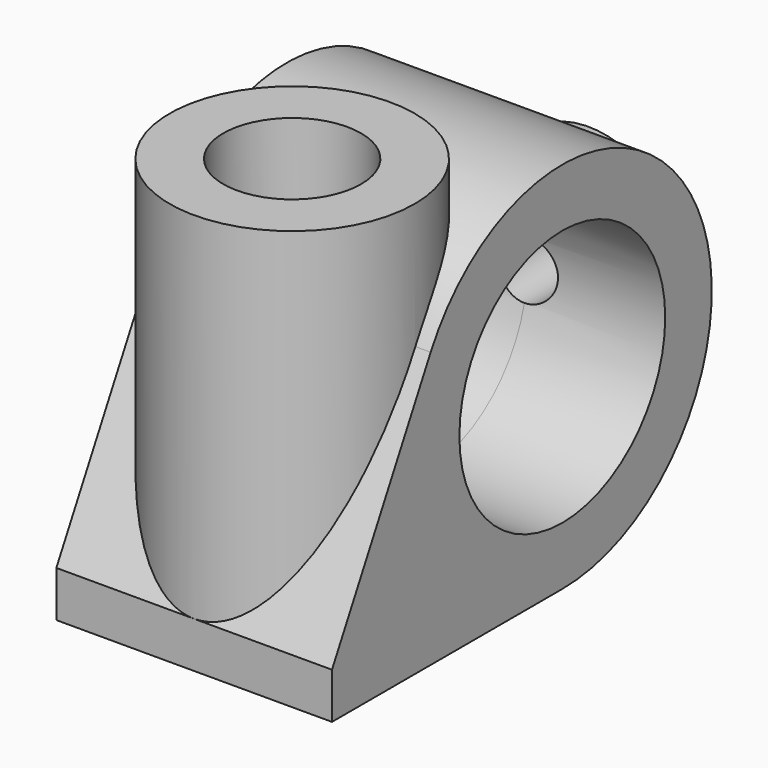
from build123d import *

# Parameters (mm, degrees)
F1_DEPTH       = 45
F2_R           = 40
F3_DEPTH       = 70
F3_DEPTH_BACK  = 61
F4_R           = 30
F5_DEPTH       = 67
F6_R           = 22.5
F9_DEPTH       = 131.0010001
F7_R           = 42
F10_DEPTH      = 45
F10_DEPTH_BACK = 45
F8_R           = 10
F11_DEPTH      = 67.0010001


with BuildPart() as f1:
    # F0 (on Right) → F1 (new body, symmetric)
    with BuildSketch(Plane.YZ):
        with BuildLine():
            Line((-53.7237960867, 28.8921050468), (-94, -46))
            Line((-94, -46), (-94, -61))
            Line((-94, -61), (0, -61))
            ThreePointArc((0, -61), (52.3613330992, 31.2936222907), (-53.7237960867, 28.8921050468))
        make_face()
    extrude(amount=F1_DEPTH, both=True)

    # F2 (on Top) → F3 (join, two sides)
    with BuildSketch(Plane.XY) as f3_sk:
        with Locations((0, -54)):
            Circle(F2_R)
    extrude(amount=F3_DEPTH)
    extrude(f3_sk.sketch, amount=-F3_DEPTH_BACK)

    # F4 (on Front) → F5 (join)
    with BuildSketch(Plane.XZ):
        Circle(F4_R)
    extrude(amount=-F5_DEPTH)

    # F6 (on face) → F9 (cut, through all)
    with BuildSketch(Plane.XY.offset(70)):
        with Locations((0, -54)):
            Circle(F6_R)
    extrude(amount=-F9_DEPTH, mode=Mode.SUBTRACT)

    # F7 (on Right) → F10 (cut, two sides)
    with BuildSketch(Plane.YZ) as f10_sk:
        Circle(F7_R)
    extrude(amount=-F10_DEPTH, mode=Mode.SUBTRACT)
    extrude(f10_sk.sketch, amount=F10_DEPTH_BACK, mode=Mode.SUBTRACT)

    # F8 (on Front) → F11 (cut, through all)
    with BuildSketch(Plane.XZ):
        Circle(F8_R)
    extrude(amount=-F11_DEPTH, mode=Mode.SUBTRACT)


solid = f1.part
